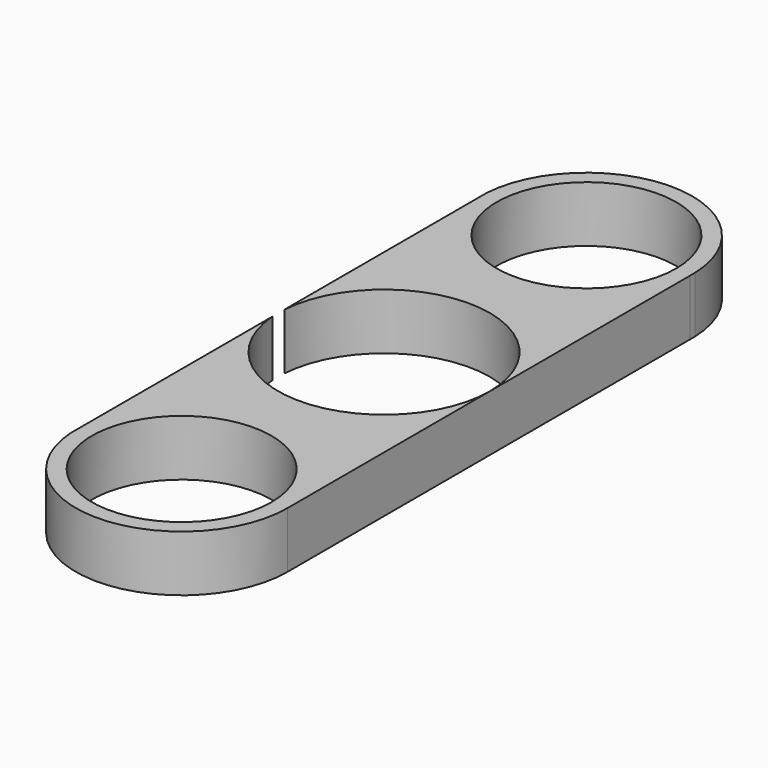
from build123d import *

# Parameters (mm, degrees)
F0_R     = 11.2
F1_DEPTH = 7


with BuildPart() as f1:
    # F0 (on Top) → F1 (new body)
    with BuildSketch(Plane.XY):
        with BuildLine():
            ThreePointArc((-13.165616, 0.952129), (0.476375, 13.191401), (13.2, 0))
            ThreePointArc((13.2, 0), (0.476375, -13.191401), (-13.165616, -0.952129))
            Line((-13.165616, -0.952129), (-13.165616, -30.748123))
            ThreePointArc((-13.165616, -30.748123), (-0.386904, -44.739478), (13.21028, -31.542127))
            Line((13.21028, -31.542127), (13.194472, 31.165589))
            Line((13.194472, 31.165589), (13.194278, 31.936201))
            ThreePointArc((13.194278, 31.936201), (0.282113, 44.744554), (-13.165616, 32.499698))
            Line((-13.165616, 32.499698), (-13.165616, 30.59544))
            Line((-13.165616, 30.59544), (-13.165616, 0.952129))
        make_face()
        with Locations((0.010281, -31.545455)):
            Circle(F0_R, mode=Mode.SUBTRACT)
        with Locations((0, 31.547569)):
            Circle(F0_R, mode=Mode.SUBTRACT)
    extrude(amount=F1_DEPTH)


solid = f1.part
